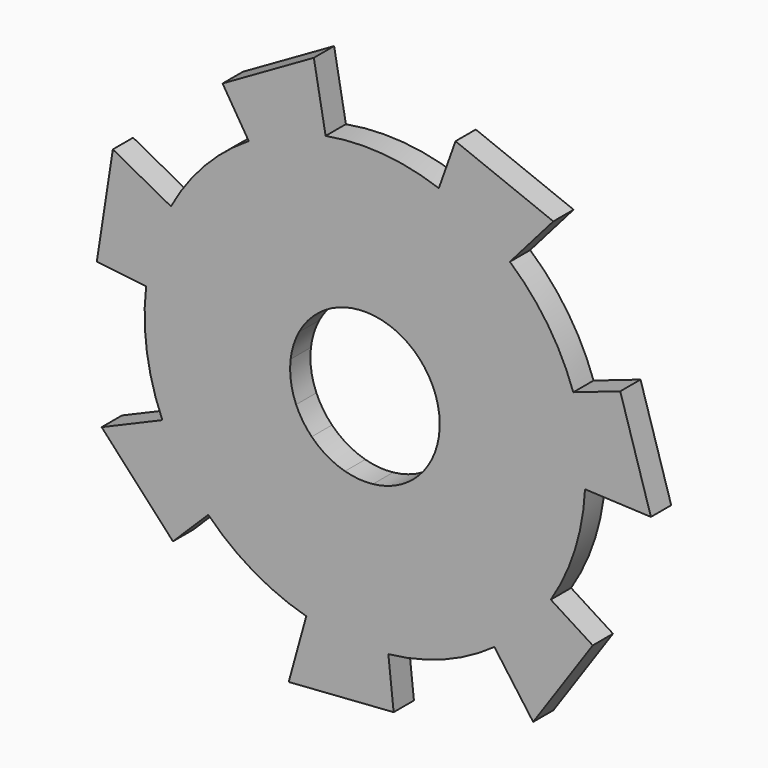
from build123d import *

# Parameters (mm, degrees)
F1_DEPTH = 2.54


with BuildPart() as f1:
    # F0 (on Front) → F1 (new body)
    with BuildSketch(Plane.XZ):
        with BuildLine():
            ThreePointArc((100.4637709835, 24.5202755292), (98.8505752827, 20.7028539466), (97.9794554163, 16.6511557734))
            Line((97.9794554163, 16.6511557734), (112.4548073042, 14.9387164914))
            ThreePointArc((112.4548073042, 14.9387164914), (112.750613352, 16.3145510573), (113.2984059841, 17.610832355))
            Line((113.2984059841, 17.610832355), (100.4637709835, 24.5202755292))
        make_face()
        with BuildLine():
            Line((94.6431664801, 27.6537605137), (93.0369318411, 17.235858072))
            Line((93.0369318411, 17.235858072), (97.9794554163, 16.6511557734))
            ThreePointArc((97.9794554163, 16.6511557734), (98.8505752827, 20.7028539466), (100.4637709835, 24.5202755292))
            Line((100.4637709835, 24.5202755292), (94.6431664801, 27.6537605137))
        make_face()
        with BuildLine():
            ThreePointArc((108.2590536648, 32.8111313165), (103.8178678916, 29.1767583261), (100.4637709835, 24.5202755292))
            Line((100.4637709835, 24.5202755292), (113.2984059841, 17.610832355))
            ThreePointArc((113.2984059841, 17.610832355), (114.4373561887, 19.1920335485), (115.9454490028, 20.4261570621))
            Line((115.9454490028, 20.4261570621), (108.2590536648, 32.8111313165))
        make_face()
        with BuildLine():
            Line((105.6345792851, 37.0399077708), (108.2590536648, 32.8111313165))
            ThreePointArc((108.2590536648, 32.8111313165), (111.969933207, 34.6562548711), (115.96032465, 35.7751311111))
            Line((115.96032465, 35.7751311111), (114.7810943121, 42.2795588909))
            Line((114.7810943121, 42.2795588909), (105.6345792851, 37.0399077708))
        make_face()
        with BuildLine():
            ThreePointArc((115.96032465, 35.7751311111), (111.969933207, 34.6562548711), (108.2590536648, 32.8111313165))
            Line((108.2590536648, 32.8111313165), (115.9454490028, 20.4261570621))
            ThreePointArc((115.9454490028, 20.4261570621), (117.2055518352, 21.0527054022), (118.5605684835, 21.432642046))
            Line((118.5605684835, 21.432642046), (115.96032465, 35.7751311111))
        make_face()
        with BuildLine():
            ThreePointArc((127.3026559755, 34.8497977282), (121.6921547148, 36.0560620894), (115.96032465, 35.7751311111))
            Line((115.96032465, 35.7751311111), (118.5605684835, 21.432642046))
            ThreePointArc((118.5605684835, 21.432642046), (120.5069251941, 21.5280377379), (122.4120823002, 21.1184267223))
            Line((122.4120823002, 21.1184267223), (127.3026559755, 34.8497977282))
        make_face()
        with BuildLine():
            Line((128.9725135288, 39.5382934166), (127.3026559755, 34.8497977282))
            ThreePointArc((127.3026559755, 34.8497977282), (131.05892721, 33.0989309939), (134.4216682495, 30.6767252615))
            Line((134.4216682495, 30.6767252615), (138.7717965735, 35.6541290524))
            Line((138.7717965735, 35.6541290524), (128.9725135288, 39.5382934166))
        make_face()
        with BuildLine():
            ThreePointArc((127.3921361091, 14.0582406893), (127.3902348164, 13.8894351928), (127.3845319028, 13.7207153441))
            Line((127.3845319028, 13.7207153441), (141.9460335089, 13.0642615738))
            ThreePointArc((141.9460335089, 13.0642615738), (141.9628280312, 13.5611250194), (141.9684271523, 14.0582406893))
            ThreePointArc((141.9684271523, 14.0582406893), (141.6667692307, 17.6948227702), (140.7700413898, 21.2319976191))
            Line((140.7700413898, 21.2319976191), (126.9852004281, 16.4942322981))
            ThreePointArc((126.9852004281, 16.4942322981), (127.2897021721, 15.2931143434), (127.3921361091, 14.0582406893))
        make_face()
        with BuildLine():
            ThreePointArc((141.9684271523, 14.0582406893), (141.9628280312, 13.5611250194), (141.9460335089, 13.0642615738))
            Line((141.9460335089, 13.0642615738), (148.5497851403, 12.7665548006))
            Line((148.5497851403, 12.7665548006), (145.4767940795, 22.8496796605))
            Line((145.4767940795, 22.8496796605), (140.7700413898, 21.2319976191))
            ThreePointArc((140.7700413898, 21.2319976191), (141.6667692307, 17.6948227702), (141.9684271523, 14.0582406893))
        make_face()
        with BuildLine():
            ThreePointArc((124.829484274, 19.7013771051), (126.1176011891, 18.2391323936), (126.9852004281, 16.4942322981))
            Line((126.9852004281, 16.4942322981), (140.7700413898, 21.2319976191))
            ThreePointArc((140.7700413898, 21.2319976191), (138.2150465242, 26.3705576648), (134.4216682495, 30.6767252615))
            Line((134.4216682495, 30.6767252615), (124.829484274, 19.7013771051))
        make_face()
        with BuildLine():
            ThreePointArc((127.3845319028, 13.7207153441), (127.0444307125, 11.8019303214), (126.2211521617, 10.0356865073))
            Line((126.2211521617, 10.0356865073), (138.519994006, 2.2122122239))
            ThreePointArc((138.519994006, 2.2122122239), (140.9444687818, 7.4136274321), (141.9460335089, 13.0642615738))
            Line((141.9460335089, 13.0642615738), (127.3845319028, 13.7207153441))
        make_face()
        with BuildLine():
            ThreePointArc((138.519994006, 2.2122122239), (135.977176173, -1.0602769474), (132.8674199187, -3.7997155664))
            Line((132.8674199187, -3.7997155664), (136.7520351871, -9.1483536313))
            Line((136.7520351871, -9.1483536313), (142.7193610565, -0.4590669536))
            Line((142.7193610565, -0.4590669536), (138.519994006, 2.2122122239))
        make_face()
        with BuildLine():
            ThreePointArc((126.2211521617, 10.0356865073), (125.3576878759, 8.9244478301), (124.3017083919, 7.9942170523))
            Line((124.3017083919, 7.9942170523), (132.8674199187, -3.7997155664))
            ThreePointArc((132.8674199187, -3.7997155664), (135.977176173, -1.0602769474), (138.519994006, 2.2122122239))
            Line((138.519994006, 2.2122122239), (126.2211521617, 10.0356865073))
        make_face()
        with BuildLine():
            ThreePointArc((124.3017083919, 7.9942170523), (122.5894922293, 7.0637759765), (120.6952814292, 6.6062060608))
            Line((120.6952814292, 6.6062060608), (122.2468453968, -7.8872721218))
            ThreePointArc((122.2468453968, -7.8872721218), (127.8251108575, -6.5397734925), (132.8674199187, -3.7997155664))
            Line((132.8674199187, -3.7997155664), (124.3017083919, 7.9942170523))
        make_face()
        with BuildLine():
            ThreePointArc((122.2468453968, -7.8872721218), (118.1028893498, -7.9395807108), (114.0222086823, -7.2162874102))
            Line((114.0222086823, -7.2162874102), (112.2624930588, -13.5882232116))
            Line((112.2624930588, -13.5882232116), (122.7766177676, -12.8359848135))
            Line((122.7766177676, -12.8359848135), (122.2468453968, -7.8872721218))
        make_face()
        with BuildLine():
            ThreePointArc((120.6952814292, 6.6062060608), (119.2881188704, 6.5884436408), (117.9024427231, 6.8340522428))
            Line((117.9024427231, 6.8340522428), (114.0222086823, -7.2162874102))
            ThreePointArc((114.0222086823, -7.2162874102), (118.1028893498, -7.9395807108), (122.2468453968, -7.8872721218))
            Line((122.2468453968, -7.8872721218), (120.6952814292, 6.6062060608))
        make_face()
        with BuildLine():
            Line((114.5686815996, 8.7882596833), (104.2046083767, -1.4613377139))
            ThreePointArc((104.2046083767, -1.4613377139), (108.7361168545, -4.9824496152), (114.0222086823, -7.2162874102))
            Line((114.0222086823, -7.2162874102), (117.9024427231, 6.8340522428))
            ThreePointArc((117.9024427231, 6.8340522428), (116.1074452815, 7.5925962215), (114.5686815996, 8.7882596833))
        make_face()
        with BuildLine():
            Line((113.0055124663, 11.1138486801), (99.601228233, 5.3872943263))
            ThreePointArc((99.601228233, 5.3872943263), (101.5799975403, 1.7459237139), (104.2046083767, -1.4613377139))
            Line((104.2046083767, -1.4613377139), (114.5686815996, 8.7882596833))
            ThreePointArc((114.5686815996, 8.7882596833), (113.6774428754, 9.877348985), (113.0055124663, 11.1138486801))
        make_face()
        with BuildLine():
            ThreePointArc((104.2046083767, -1.4613377139), (101.5799975403, 1.7459237139), (99.601228233, 5.3872943263))
            Line((99.601228233, 5.3872943263), (93.5222834738, 2.7902584107))
            Line((93.5222834738, 2.7902584107), (100.6658566672, -4.9610023275))
            Line((100.6658566672, -4.9610023275), (104.2046083767, -1.4613377139))
        make_face()
        with BuildLine():
            Line((112.4548073042, 14.9387164914), (97.9794554163, 16.6511557734))
            ThreePointArc((97.9794554163, 16.6511557734), (98.0518886015, 10.9129024207), (99.601228233, 5.3872943263))
            Line((99.601228233, 5.3872943263), (113.0055124663, 11.1138486801))
            ThreePointArc((113.0055124663, 11.1138486801), (112.4794034305, 12.9901786259), (112.4548073042, 14.9387164914))
        make_face()
        with BuildLine():
            ThreePointArc((122.4120823002, 21.1184267223), (123.687598783, 20.5238851572), (124.829484274, 19.7013771051))
            Line((124.829484274, 19.7013771051), (134.4216682495, 30.6767252615))
            ThreePointArc((134.4216682495, 30.6767252615), (131.05892721, 33.0989309939), (127.3026559755, 34.8497977282))
            Line((127.3026559755, 34.8497977282), (122.4120823002, 21.1184267223))
        make_face()
    extrude(amount=F1_DEPTH)


solid = f1.part
